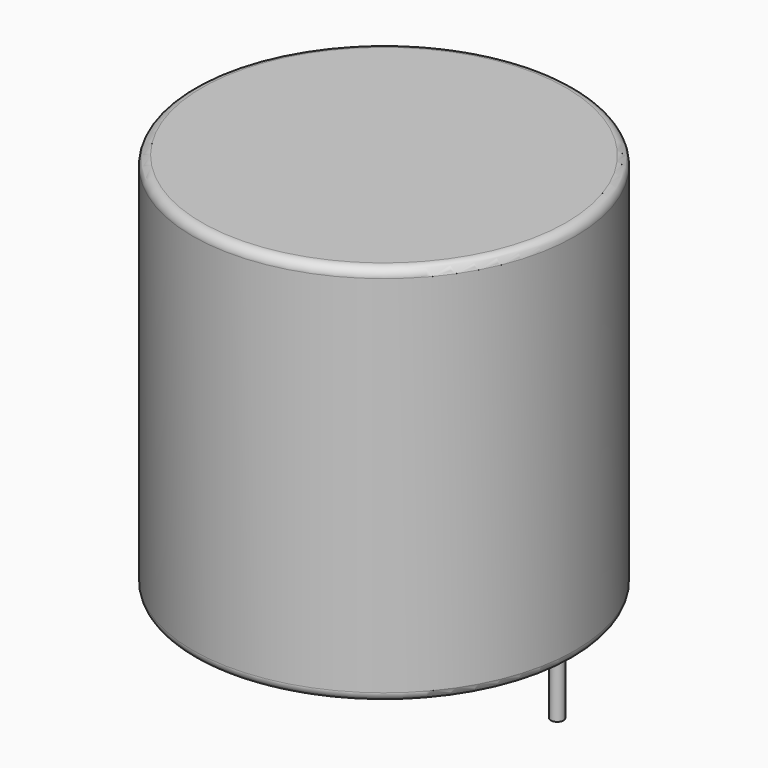
from build123d import *

# Parameters (mm, degrees)
SKETCH001_R       = 0.35
PAD001_DEPTH      = 10.5
PAD001_DEPTH_BACK = 3.5
SKETCH_R          = 10.5
PAD_DEPTH         = 21
FILLET_R          = 0.5


with BuildPart() as pad001:
    # Sketch001 → Pad001 (new body, two sides)
    with BuildSketch(Plane.XY.offset(0.5)) as pad001_sk:
        Circle(SKETCH001_R)
        with Locations((19, 0)):
            Circle(SKETCH001_R)
    extrude(amount=PAD001_DEPTH)
    extrude(pad001_sk.sketch, amount=-PAD001_DEPTH_BACK)


with BuildPart() as l_radial_d21_0mm_p19_00mm:
    # Sketch → Pad (new body)
    with BuildSketch(Plane.XY.offset(0.1)):
        with Locations((9.5, 0)):
            Circle(SKETCH_R)
    extrude(amount=PAD_DEPTH)

    # Fillet
    fillet_edges = [l_radial_d21_0mm_p19_00mm.edges().sort_by_distance(p)[0] for p in [
        (-1, 0, 0.1),
        (-1, 0, 21.1),
    ]]
    fillet(fillet_edges, radius=FILLET_R)

    add(pad001.part)


solid = l_radial_d21_0mm_p19_00mm.part
